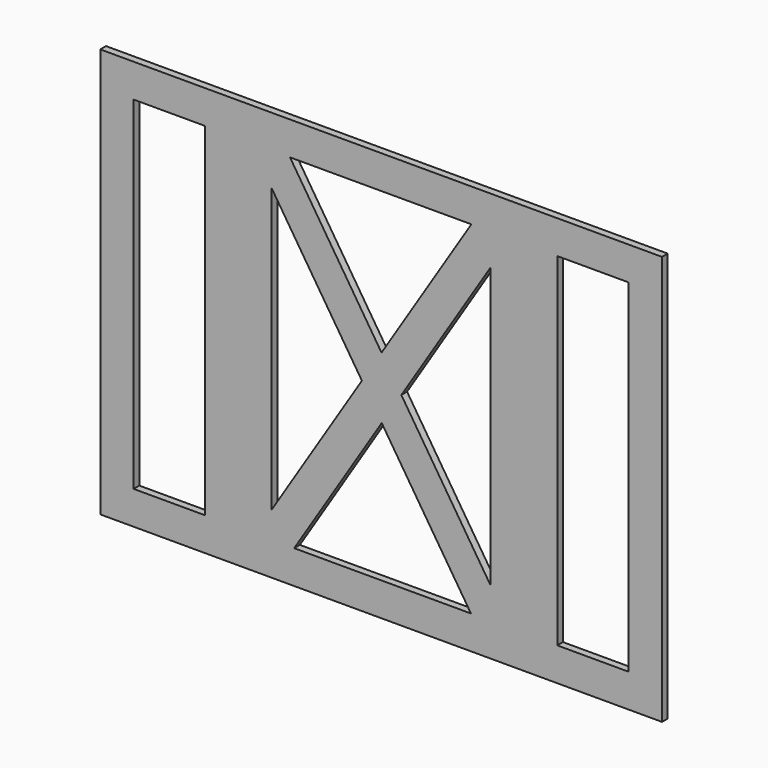
from build123d import *

# Parameters (mm, degrees)
F0_W     = 368.3
F0_H     = 1092.2
F0_W_2   = 190.5
F0_H_2   = 914.4
F0_W_3   = 762
F1_DEPTH = 19.05


with BuildPart() as f1:
    # F0 (on Front) → F1 (new body)
    with BuildSketch(Plane.XZ):
        with Locations((-565.15, 0)):
            Rectangle(F0_W, F0_H)
        with Locations((-565.15, 0)):
            Rectangle(F0_W_2, F0_H_2, mode=Mode.SUBTRACT)
        Rectangle(F0_W_3, F0_H)
        Polygon((-292.1, 368.9355254173), (-292.1, 457.2), (-243.1696620615, 457.2), (240.5874935984, 457.2), (292.1, 457.2), (292.1, 372.785449028), (292.1, -374.433606863), (292.1, -457.2), (239.6308967048, -457.2), (-232.0502612908, -457.2), (-292.1, -457.2), (-292.1, -386.304050684), align=None, mode=Mode.SUBTRACT)
        with Locations((565.15, 0)):
            Rectangle(F0_W, F0_H)
        with Locations((565.15, 0)):
            Rectangle(F0_W_2, F0_H_2, mode=Mode.SUBTRACT)
        Polygon((-243.1696620615, 457.2), (-292.1, 457.2), (-292.1, 368.9355254173), (-51.3600907369, -5.0953850685), (1.0077163844, 77.8283891202), align=None)
        Polygon((292.1, 457.2), (240.5874935984, 457.2), (1.0077163844, 77.8283891202), (53.9167090191, -4.3748431922), (292.1, 372.785449028), align=None)
        Polygon((53.9167090191, -4.3748431922), (1.0077163844, 77.8283891202), (-51.3600907369, -5.0953850685), (1.5489018977, -87.298617381), align=None)
        Polygon((-51.3600907369, -5.0953850685), (-292.1, -386.304050684), (-292.1, -457.2), (-232.0502612908, -457.2), (1.5489018977, -87.298617381), align=None)
        Polygon((292.1, -374.433606863), (53.9167090191, -4.3748431922), (1.5489018977, -87.298617381), (239.6308967048, -457.2), (292.1, -457.2), align=None)
    extrude(amount=F1_DEPTH)


solid = f1.part
